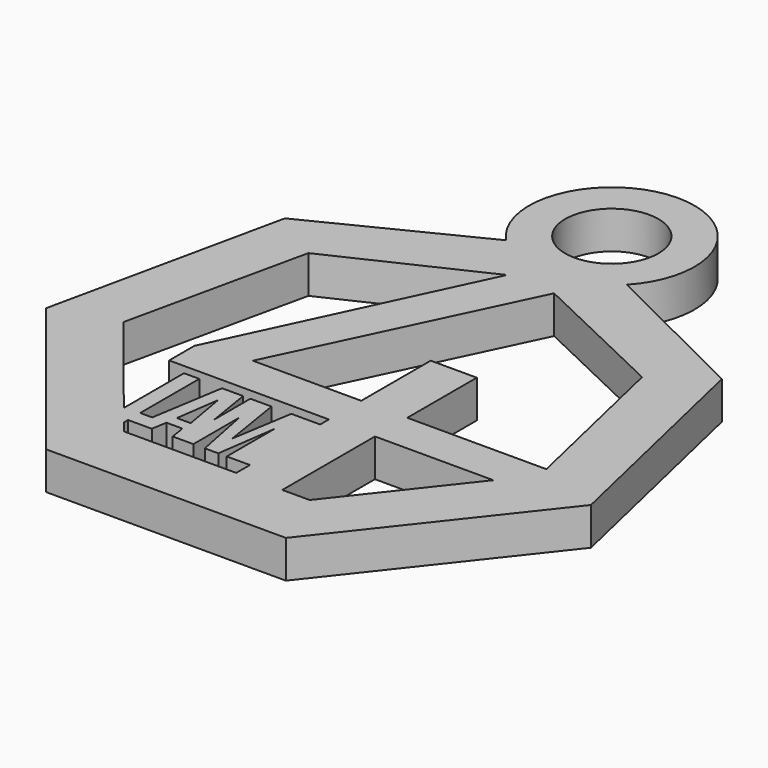
from build123d import *

# Parameters (mm, degrees)
F0_R     = 4.402085
F1_DEPTH = 3.556


with BuildPart() as f1:
    # F0 (on Top) → F1 (new body)
    with BuildSketch(Plane.XY):
        with BuildLine():
            Line((20.582827, 15.03559), (5.694803, 22.40837))
            ThreePointArc((5.694803, 22.40837), (-0.012179, 35.583295), (-5.678087, 22.390654))
            Line((-5.678087, 22.390654), (-20.605812, 14.929876))
            Line((-20.605812, 14.929876), (-25.391359, -7.271409))
            Line((-25.391359, -7.271409), (-11.307846, -24.868462))
            Line((-11.307846, -24.868462), (11.328456, -24.868462))
            Line((11.328456, -24.868462), (25.611341, -6.709338))
            Line((25.611341, -6.709338), (20.582827, 15.03559))
        make_face()
        Polygon((1.98904, -19.050645), (-8.613165, -19.050645), (-9.520229, -17.923106), (-9.520229, -17.433573), (-8.613165, -17.433573), (-7.276958, -17.433573), (-7.045834, -16.000603), (-5.532191, -16.000603), (-5.301067, -17.433573), (-3.351233, -17.433573), (-3.351233, -12.015489), (-2.27366, -17.433573), (-0.995861, -17.433573), (-0.201685, -11.824992), (-0.201685, -17.433573), (1.98904, -17.433573), align=None, mode=Mode.SUBTRACT)
        Polygon((-6.903224, -14.944203), (-6.318515, -10.814905), (-5.597766, -14.944203), align=None, mode=Mode.SUBTRACT)
        Polygon((-19.556073, -5.4479), (-15.785119, 11.681147), (-2.169188, 18.099292), (-13.096711, -5.12498), (-13.096711, -8.115993), (1.98904, -8.115993), (1.98904, -9.149087), (-0.734084, -9.149087), (-1.66878, -14.944203), (-2.603476, -9.149087), (-4.597495, -9.149087), (-4.597495, -13.386376), (-5.282939, -9.149087), (-7.276958, -9.149087), (-8.382041, -16.000603), (-9.520229, -16.000603), (-9.520229, -9.024461), (-10.965921, -9.024461), (-10.965921, -16.126017), align=None, mode=Mode.SUBTRACT)
        Polygon((6.338026, -8.115993), (17.520358, -8.115993), (8.919812, -19.050645), (6.338026, -19.050645), align=None, mode=Mode.SUBTRACT)
        with Locations((0, 27.765062)):
            Circle(F0_R, mode=Mode.SUBTRACT)
        Polygon((-8.250832, -4.297359), (2.373208, 17.990539), (15.798973, 11.590838), (19.473118, -4.297359), (6.338026, -4.297359), (6.338026, 3.905739), (1.98904, 3.905739), (1.98904, -4.297359), align=None, mode=Mode.SUBTRACT)
    extrude(amount=F1_DEPTH)


solid = f1.part
